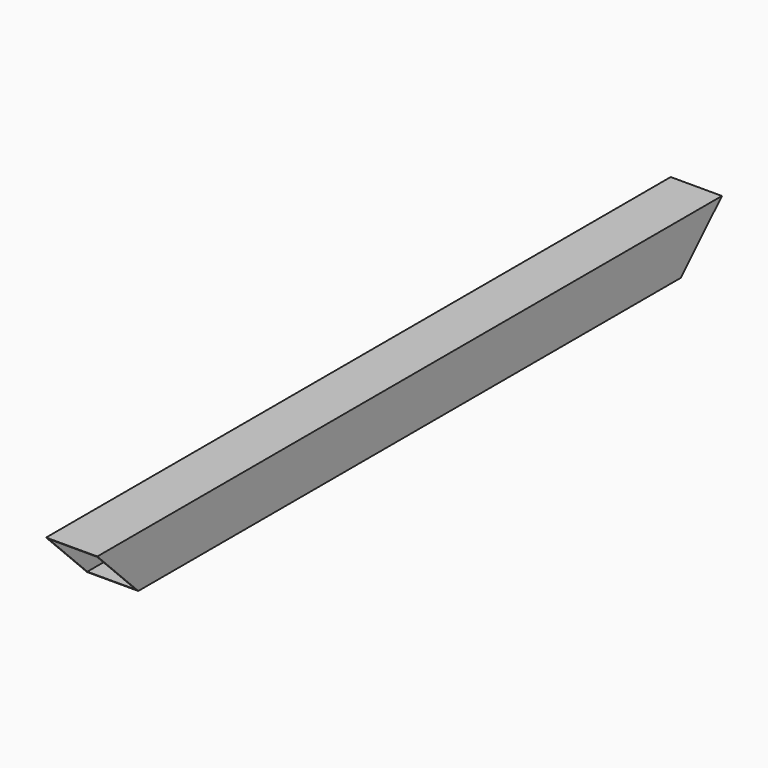
from build123d import *

# Parameters (mm, degrees)
F0_W     = 50
F0_H     = 50
F0_W_2   = 47.5
F0_H_2   = 47.5
F1_DEPTH = 381
F3_DEPTH = 30


with BuildPart() as f1:
    # F0 (on Front) → F1 (new body, symmetric)
    with BuildSketch(Plane.XZ):
        Rectangle(F0_W, F0_H)
        Rectangle(F0_W_2, F0_H_2, mode=Mode.SUBTRACT)
    extrude(amount=F1_DEPTH, both=True)

    # F2 (on Right) → F3 (cut, symmetric)
    with BuildSketch(Plane.YZ):
        Polygon((381, -25), (381, 25), (331, -25), align=None)
        Polygon((-331, -25), (-381, 25), (-381, -25), align=None)
    extrude(amount=F3_DEPTH, both=True, mode=Mode.SUBTRACT)


solid = f1.part
